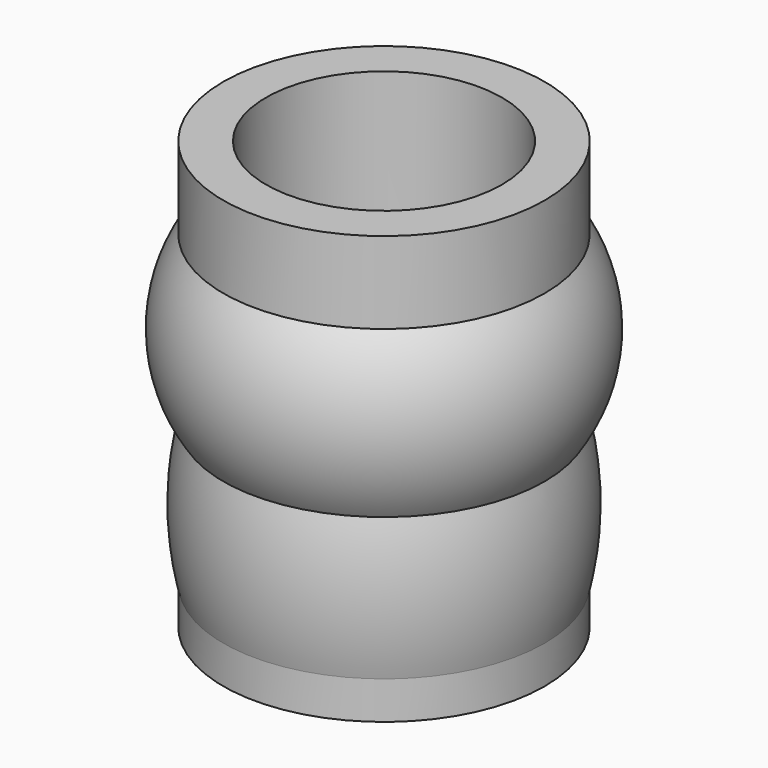
from build123d import *


with BuildPart() as f1:
    # F0 (on Front) → F1 (revolve)
    with BuildSketch(Plane.XZ):
        with BuildLine():
            Line((0, 5.093039), (0, 0))
            Line((0, 0), (20.807387, 0))
            Line((20.807387, 0), (20.807387, 4.899326))
            ThreePointArc((20.807387, 4.899326), (21.906005, 14.124552), (20.807387, 23.349779))
            ThreePointArc((20.807387, 23.349779), (24.085966, 34.068255), (20.807387, 44.786732))
            Line((20.807387, 44.786732), (20.807387, 55.376977))
            Line((20.807387, 55.376977), (15.279118, 55.376977))
            Line((15.279118, 55.376977), (15.279118, 5.093039))
            Line((15.279118, 5.093039), (0, 5.093039))
        make_face()
    revolve(axis=Axis((0, 0, 27.688488), (0, 0, 1)))


with BuildPart() as f2:
    # F0 (on Front) → F2 (revolve)
    with BuildSketch(Plane.XZ):
        with BuildLine():
            Line((0, 5.093039), (0, 0))
            Line((0, 0), (20.807387, 0))
            Line((20.807387, 0), (20.807387, 4.899326))
            ThreePointArc((20.807387, 4.899326), (21.906005, 14.124552), (20.807387, 23.349779))
            ThreePointArc((20.807387, 23.349779), (24.085966, 34.068255), (20.807387, 44.786732))
            Line((20.807387, 44.786732), (20.807387, 55.376977))
            Line((20.807387, 55.376977), (15.279118, 55.376977))
            Line((15.279118, 55.376977), (15.279118, 5.093039))
            Line((15.279118, 5.093039), (0, 5.093039))
        make_face()
    revolve(axis=Axis((0, 0, 27.688488), (0, 0, 1)))


solid = Compound([f1.part, f2.part])
